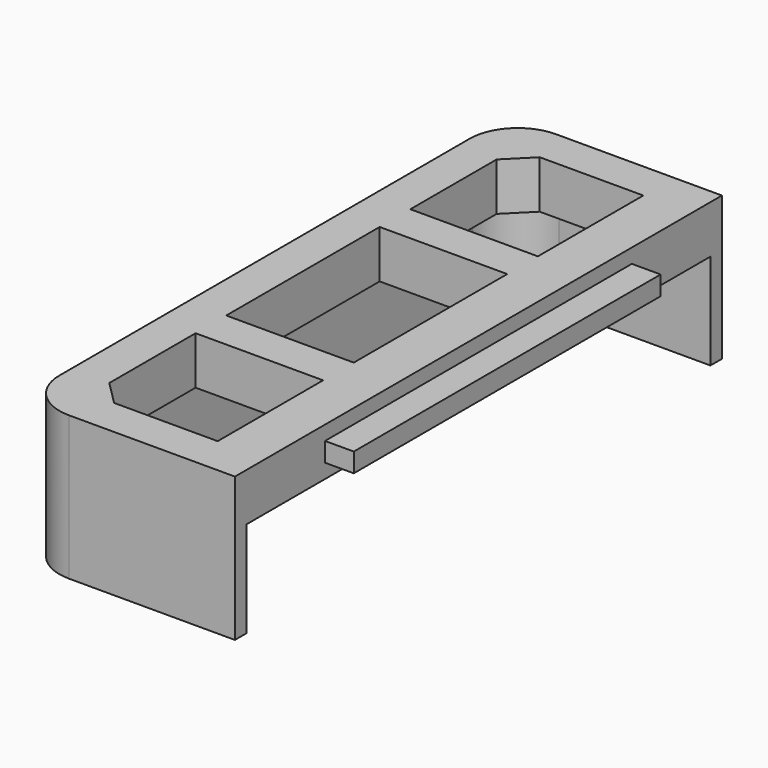
from build123d import *

# Parameters (mm, degrees)
F0_W     = 63.49
F0_H     = 5
F1_DEPTH = 22.3
F2_W     = 40
F2_H     = 2
F3_DEPTH = 3
F5_DEPTH = 10
F6_R     = 5
F7_W     = 13.3
F7_H     = 20
F8_DEPTH = 25


with BuildPart() as f1:
    # F0 (on Right) → F1 (new body)
    with BuildSketch(Plane.YZ):
        with Locations((0, 2.5)):
            Rectangle(F0_W, F0_H)
    extrude(amount=-F1_DEPTH)

    # F2 (on face) → F3 (join)
    with BuildSketch(Plane.YZ):
        with Locations((0, 2.5)):
            Rectangle(F2_W, F2_H)
    extrude(amount=F3_DEPTH)

    # F4 (on face) → F5 (join)
    with BuildSketch(Plane(origin=(0, 0, 0), x_dir=(1, 0, 0), z_dir=(0, 0, -1))):
        Polygon((0, 30.245), (0, 31.745), (-22.3, 31.745), (-22.3, -31.745), (0, -31.745), (0, -30.245), (-20.8, -30.245), (-20.8, 30.245), align=None)
    extrude(amount=F5_DEPTH)

    # F6
    f6_edges = [f1.edges().sort_by_distance(p)[0] for p in [
        (-22.3, -31.745, -2.5),
        (-22.3, 31.745, -2.5),
        (-20.8, 30.245, -5),
        (-20.8, -30.245, -5),
    ]]
    fillet(f6_edges, radius=F6_R)

    # F7 (on face) → F8 (cut)
    with BuildSketch(Plane(origin=(0, 0, 0), x_dir=(1, 0, 0), z_dir=(0, 0, -1))):
        with Locations((-11.65, 0)):
            Rectangle(F7_W, F7_H)
        Polygon((-18.3, 14), (-5, 14), (-5, 27.745), (-15.8, 27.745), (-18.3, 25.245), align=None)
        Polygon((-5, -27.745), (-5, -14), (-18.3, -14), (-18.3, -25.245), (-15.8, -27.745), align=None)
    extrude(amount=-F8_DEPTH, mode=Mode.SUBTRACT)


solid = f1.part
